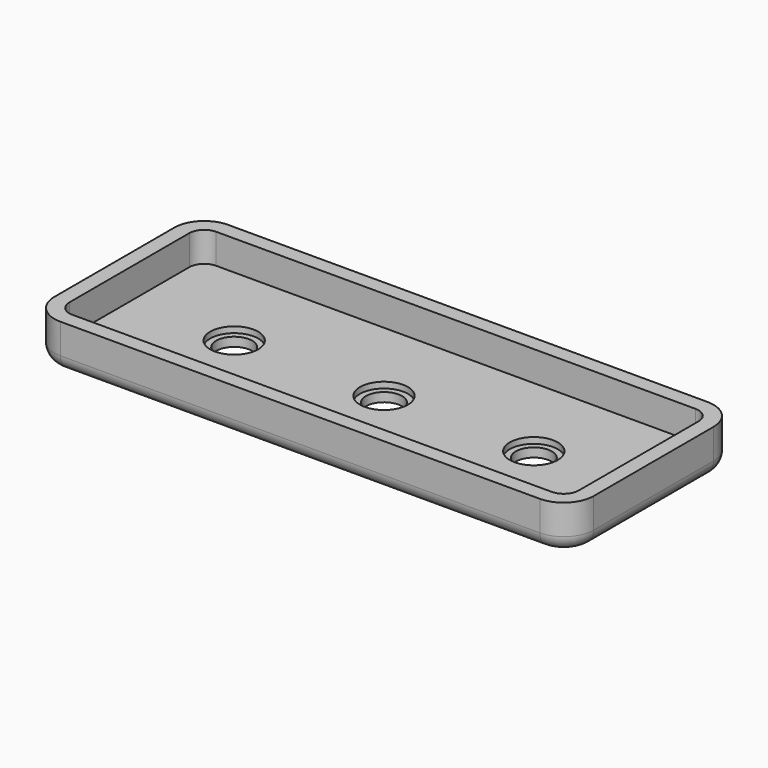
from build123d import *

# Parameters (mm, degrees)
F1_DEPTH = 3.81
F2_T     = -1.27
F3_R     = 1.524
F4_DEPTH = 25.4
F5_R     = 2.032
F6_DEPTH = 0.508
F7_R     = 1.27


with BuildPart() as f1:
    # F0 (on Top) → F1 (new body)
    with BuildSketch(Plane.XY):
        with BuildLine():
            ThreePointArc((22.86, 6.35), (22.116051, 8.146051), (20.32, 8.89))
            Line((20.32, 8.89), (-20.32, 8.89))
            ThreePointArc((-20.32, 8.89), (-22.116051, 8.146051), (-22.86, 6.35))
            Line((-22.86, 6.35), (-22.86, -6.35))
            ThreePointArc((-22.86, -6.35), (-22.116051, -8.146051), (-20.32, -8.89))
            Line((-20.32, -8.89), (20.32, -8.89))
            ThreePointArc((20.32, -8.89), (22.116051, -8.146051), (22.86, -6.35))
            Line((22.86, -6.35), (22.86, 6.35))
        make_face()
    extrude(amount=F1_DEPTH)

    # F2
    f2_openings = [f1.faces().sort_by_distance(p)[0] for p in [
        (0, 0, 3.81),
    ]]
    offset(amount=F2_T, openings=f2_openings)

    # F3 (on face) → F4 (cut)
    with BuildSketch(Plane.XY.offset(1.27)):
        with Locations((-12.7, 0)):
            Circle(F3_R)
        with Locations((-12.7, 50.8)):
            Circle(F3_R)
        Circle(F3_R)
        with Locations((0, 50.8)):
            Circle(F3_R)
        with Locations((12.7, 0)):
            Circle(F3_R)
        with Locations((12.7, 50.8)):
            Circle(F3_R)
    extrude(amount=-F4_DEPTH, mode=Mode.SUBTRACT)

    # F5 (on face) → F6 (cut)
    with BuildSketch(Plane.XY.offset(1.27)):
        with Locations((-12.7, 0)):
            Circle(F5_R)
        Circle(F5_R)
        with Locations((12.7, 0)):
            Circle(F5_R)
    extrude(amount=-F6_DEPTH, mode=Mode.SUBTRACT)

    # F7
    f7_edges = [f1.edges().sort_by_distance(p)[0] for p in [
        (0, -8.89, 0),
    ]]
    fillet(f7_edges, radius=F7_R)


solid = f1.part
